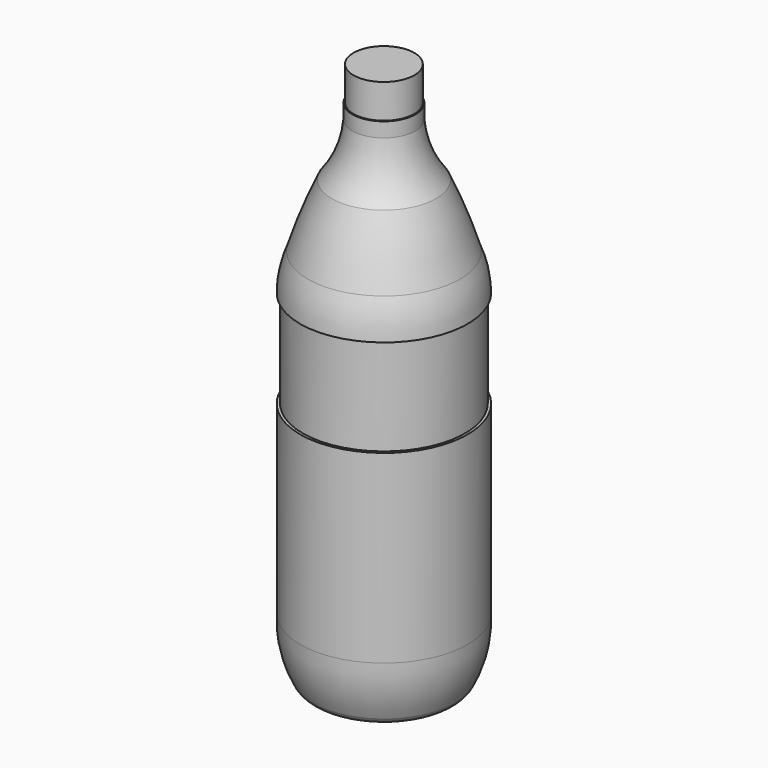
from build123d import *


with BuildPart() as f1:
    # F0 (on Front) → F1 (revolve)
    with BuildSketch(Plane.XZ):
        with BuildLine():
            Line((27.94, 0), (0, 0))
            Line((0, 0), (0, -1932.432))
            ThreePointArc((0, -1932.432), (26.5235814991, -2231.4081992011), (129.9637542715, -2513.1712179261))
            ThreePointArc((129.9637542715, -2513.1712179261), (260.6008175566, -2590.2312181989), (393.064647913, -2516.3555145264))
            ThreePointArc((393.064647913, -2516.3555145264), (575.3665753234, -2235.3582656075), (875.2803637505, -2086.2101306915))
            Line((875.2803637505, -2086.2101306915), (875.2803637505, 3120.7898693085))
            Line((875.2803637505, 3120.7898693085), (557.7803637505, 3120.7898693085))
            Line((557.7803637505, 3120.7898693085), (557.7803637505, 2765.1898693085))
            Line((557.7803637505, 2765.1898693085), (545.0803637505, 2765.1898693085))
            Line((545.0803637505, 2765.1898693085), (545.0803637505, 2612.7898693085))
            ThreePointArc((545.0803637505, 2612.7898693085), (479.7429476859, 2320.2954283546), (331.9108282475, 2059.5893862512))
            ThreePointArc((331.9108282475, 2059.5893862512), (194.7883198217, 1734.5039966945), (80.561093986, 1400.6848335266))
            ThreePointArc((80.561093986, 1400.6848335266), (21.5017804993, 1212.2750853808), (0, 1016))
            Line((0, 1016), (27.94, 1016))
            Line((27.94, 1016), (27.94, 0))
        make_face()
    revolve(axis=Axis((875.2803637505, 0, 517.2898693085), (0, 0, -1)))


solid = f1.part
